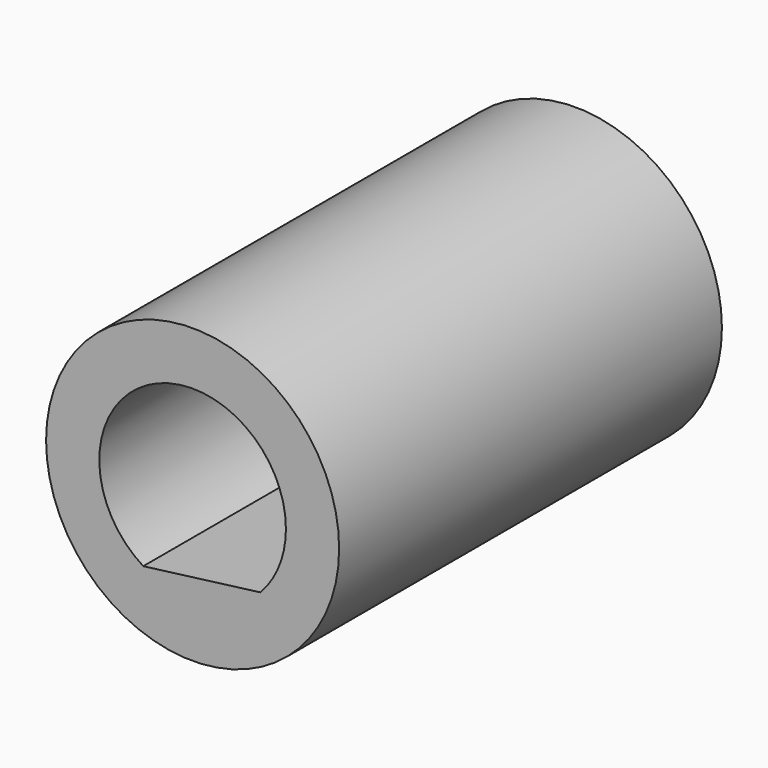
from build123d import *

# Parameters (mm, degrees)
F0_R     = 3.889259
F1_DEPTH = 12.7


with BuildPart() as f1:
    # F0 (on Front) → F1 (new body)
    with BuildSketch(Plane.XZ):
        with Locations((-39.985645, 31.329938)):
            Circle(F0_R)
        with BuildLine():
            ThreePointArc((-41.29577, 29.228361), (-41.187421, 33.495299), (-37.509145, 31.329938))
            ThreePointArc((-37.509145, 31.329938), (-37.684915, 30.413591), (-38.187274, 29.627319))
            ThreePointArc((-38.187274, 29.627319), (-39.670387, 28.873586), (-41.29577, 29.228361))
        make_face(mode=Mode.SUBTRACT)
        with BuildLine():
            Line((-38.187274, 29.627319), (-41.29577, 29.228361))
            ThreePointArc((-41.29577, 29.228361), (-39.670387, 28.873586), (-38.187274, 29.627319))
        make_face()
    extrude(amount=F1_DEPTH)


solid = f1.part
